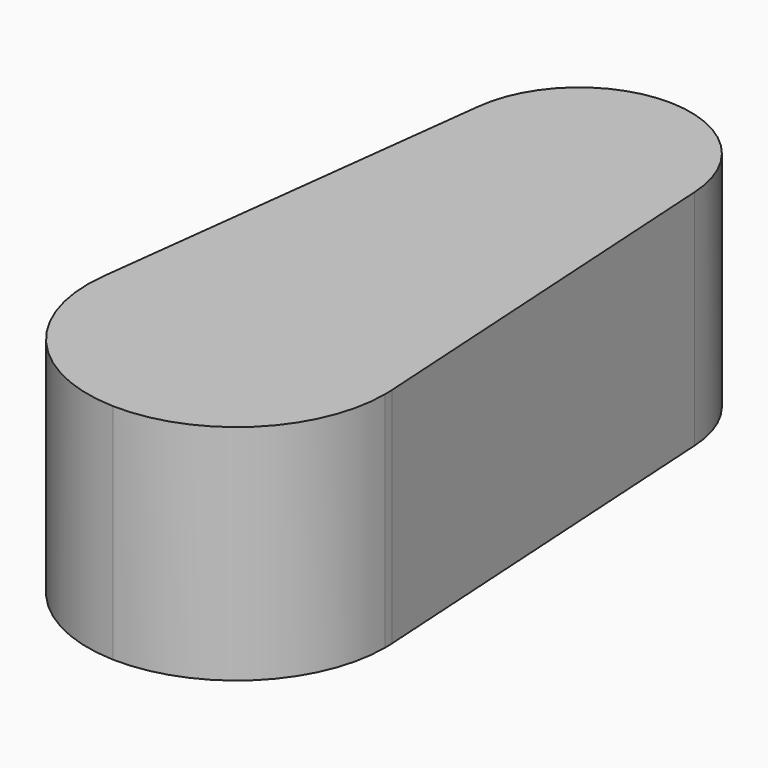
from build123d import *

# Parameters (mm, degrees)
F1_DEPTH = 15


with BuildPart() as f1:
    # F0 (on Top) → F1 (new body)
    with BuildSketch(Plane.XY):
        with BuildLine():
            ThreePointArc((-24.649322, 26.966004), (-19.199356, 29.079291), (-16.921483, 34.462543))
            ThreePointArc((-16.921483, 34.462543), (-16.923414, 34.632717), (-16.929205, 34.802804))
            ThreePointArc((-16.929205, 34.802804), (-19.158107, 39.80547), (-24.193644, 41.959081))
            Line((-24.193644, 41.959081), (-24.421483, 34.462543))
            Line((-24.421483, 34.462543), (-24.649322, 26.966004))
        make_face()
        with BuildLine():
            ThreePointArc((-16.929205, 34.802804), (-16.923414, 34.632717), (-16.921483, 34.462543))
            ThreePointArc((-16.921483, 34.462543), (-19.199356, 29.079291), (-24.649322, 26.966004))
            Line((-24.649322, 26.966004), (-24.960474, 16.728221))
            ThreePointArc((-24.960474, 16.728221), (-18.298251, 13.907425), (-15.282183, 7.3313))
            Line((-15.282183, 7.3313), (-16.929205, 34.802804))
        make_face()
        with BuildLine():
            Line((-24.960474, 16.728221), (-24.649322, 26.966004))
            ThreePointArc((-24.649322, 26.966004), (-30.074188, 29.533352), (-31.879268, 35.257174))
            Line((-31.879268, 35.257174), (-35.191567, 7.936397))
            ThreePointArc((-35.191567, 7.936397), (-31.781704, 14.317222), (-24.960474, 16.728221))
        make_face()
        with BuildLine():
            ThreePointArc((-31.879268, 35.257174), (-30.074188, 29.533352), (-24.649322, 26.966004))
            Line((-24.649322, 26.966004), (-24.421483, 34.462543))
            Line((-24.421483, 34.462543), (-24.193644, 41.959081))
            ThreePointArc((-24.193644, 41.959081), (-29.350673, 40.115248), (-31.879268, 35.257174))
        make_face()
        with BuildLine():
            ThreePointArc((-15.264259, 6.732836), (-15.268741, 7.032202), (-15.282183, 7.3313))
            ThreePointArc((-15.282183, 7.3313), (-18.298251, 13.907425), (-24.960474, 16.728221))
            Line((-24.960474, 16.728221), (-25.264259, 6.732836))
            Line((-25.264259, 6.732836), (-25.568044, -3.262549))
            ThreePointArc((-25.568044, -3.262549), (-18.301424, -0.444833), (-15.264259, 6.732836))
        make_face()
        with BuildLine():
            Line((-25.264259, 6.732836), (-24.960474, 16.728221))
            ThreePointArc((-24.960474, 16.728221), (-31.781704, 14.317222), (-35.191567, 7.936397))
            ThreePointArc((-35.191567, 7.936397), (-32.848645, 0.215391), (-25.568044, -3.262549))
            Line((-25.568044, -3.262549), (-25.264259, 6.732836))
        make_face()
        with BuildLine():
            ThreePointArc((-15.264259, 6.732836), (-15.268741, 7.032202), (-15.282183, 7.3313))
            ThreePointArc((-15.282183, 7.3313), (-18.298251, 13.907425), (-24.960474, 16.728221))
            Line((-24.960474, 16.728221), (-25.264259, 6.732836))
            Line((-25.264259, 6.732836), (-25.568044, -3.262549))
            ThreePointArc((-25.568044, -3.262549), (-18.301424, -0.444833), (-15.264259, 6.732836))
        make_face()
        with BuildLine():
            Line((-25.264259, 6.732836), (-24.960474, 16.728221))
            ThreePointArc((-24.960474, 16.728221), (-31.781704, 14.317222), (-35.191567, 7.936397))
            ThreePointArc((-35.191567, 7.936397), (-32.848645, 0.215391), (-25.568044, -3.262549))
            Line((-25.568044, -3.262549), (-25.264259, 6.732836))
        make_face()
    extrude(amount=F1_DEPTH)


solid = f1.part
